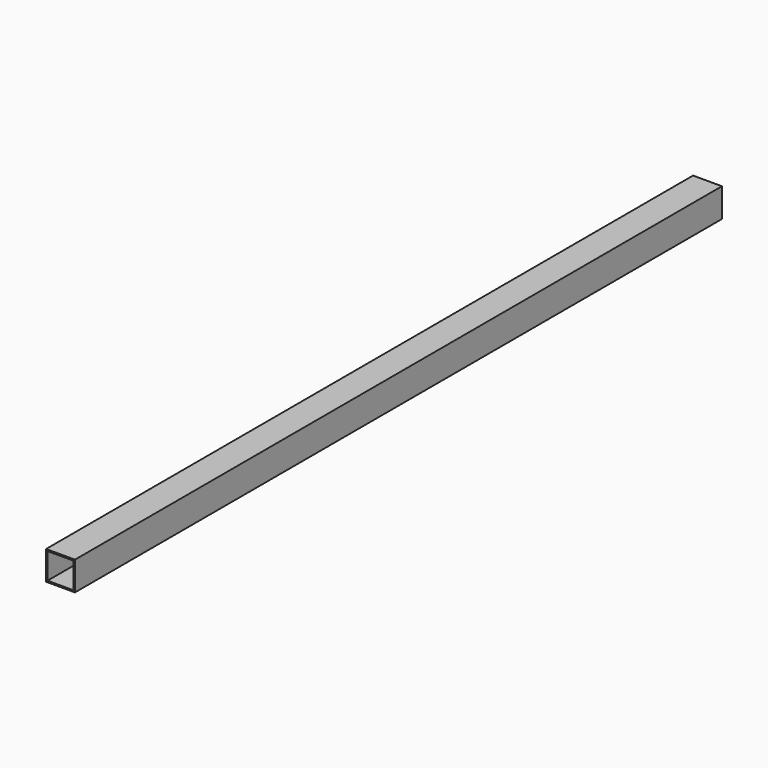
from build123d import *

# Parameters (mm, degrees)
F0_W     = 1422.4
F0_H     = 50.8
F1_DEPTH = 50.8
F2_T     = -2.54


with BuildPart() as f1:
    # F0 (on Right) → F1 (new body)
    with BuildSketch(Plane.YZ):
        Rectangle(F0_W, F0_H)
    extrude(amount=F1_DEPTH)

    # F2
    f2_openings = [f1.faces().sort_by_distance(p)[0] for p in [
        (25.4, 711.2, 0),
        (25.4, -711.2, 0),
    ]]
    offset(amount=F2_T, openings=f2_openings)


solid = f1.part
